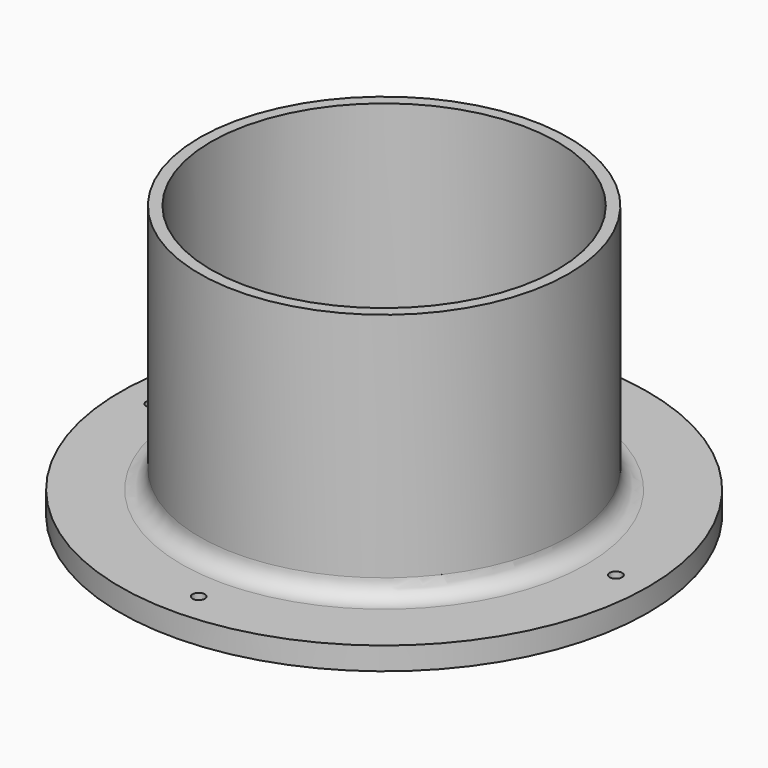
from build123d import *

# Parameters (mm, degrees)
F0_R     = 51.59375
F1_DEPTH = 76.2
F2_R     = 73.81875
F3_DEPTH = 6.35
F4_R     = 48.41875
F5_DEPTH = 76.201
F6_R     = 5.08
F7_R     = 5.08
F8_R     = 1.732497
F9_DEPTH = 6.351


with BuildPart() as f1:
    # F0 (on Top) → F1 (new body)
    with BuildSketch(Plane.XY):
        Circle(F0_R)
    extrude(amount=F1_DEPTH)

    # F2 (on Top) → F3 (join)
    with BuildSketch(Plane.XY):
        Circle(F2_R)
    extrude(amount=F3_DEPTH)

    # F4 (on face) → F5 (cut, through all)
    with BuildSketch(Plane.XY.offset(76.2)):
        Circle(F4_R)
    extrude(amount=-F5_DEPTH, mode=Mode.SUBTRACT)

    # F6
    f6_edges = [f1.edges().sort_by_distance(p)[0] for p in [
        (-51.59375, 0, 6.35),
    ]]
    fillet(f6_edges, radius=F6_R)

    # F7
    f7_edges = [f1.edges().sort_by_distance(p)[0] for p in [
        (-48.41875, 0, 0),
    ]]
    fillet(f7_edges, radius=F7_R)

    # F8 (on face) → F9 (cut, through all)
    with BuildSketch(Plane.XY.offset(6.35)):
        with Locations((64.809114, 0)):
            Circle(F8_R)
        with Locations((0, 64.809114)):
            Circle(F8_R)
        with Locations((-64.809114, 0)):
            Circle(F8_R)
        with Locations((0, -64.809114)):
            Circle(F8_R)
    extrude(amount=-F9_DEPTH, mode=Mode.SUBTRACT)


solid = f1.part
